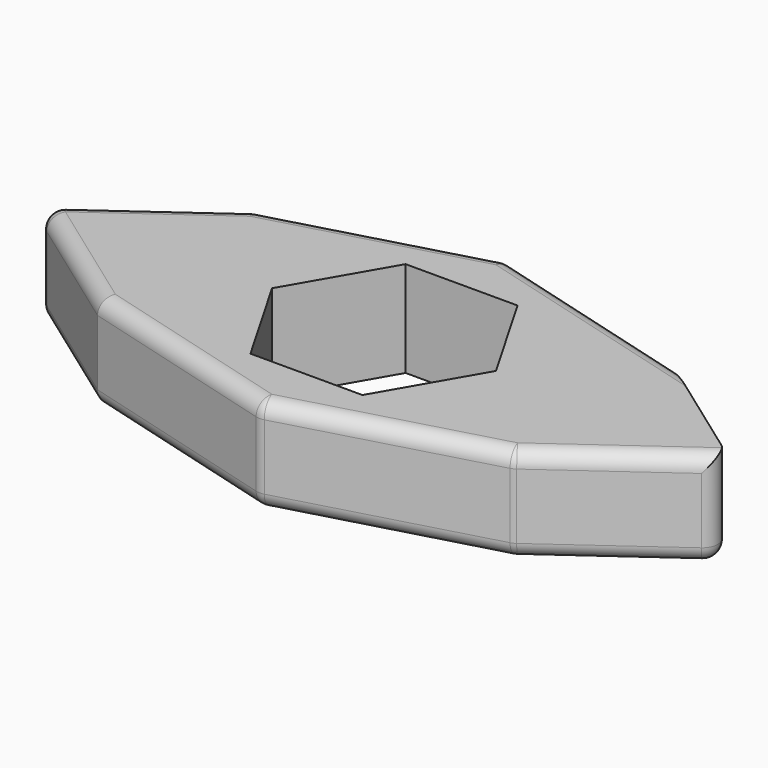
from build123d import *

# Parameters (mm, degrees)
F1_DEPTH = 6.31
F2_R     = 1


with BuildPart() as f1:
    # F0 (on Top) → F1 (new body)
    with BuildSketch(Plane.XY):
        Polygon((13.687501, 6.468751), (0, 10.265626), (-13.687501, 6.468751), (-22.6875, 0), (-13.687501, -6.468751), (0, -10.265626), (13.687501, -6.468751), (22.6875, 0), align=None)
        Polygon((-7.372763, 0), (-3.686381, 6.385), (3.686381, 6.385), (7.372763, 0), (3.686381, -6.385), (-3.686381, -6.385), align=None, mode=Mode.SUBTRACT)
    extrude(amount=F1_DEPTH)

    # F2
    f2_edges = [f1.edges().sort_by_distance(p)[0] for p in [
        (-22.6875, 0, 3.155),
        (22.6875, 0, 3.155),
        (13.687501, -6.468751, 3.155),
        (0, -10.265626, 3.155),
        (-18.187501, -3.234375, 0),
        (0, 10.265626, 3.155),
        (13.687501, 6.468751, 3.155),
        (-13.687501, 6.468751, 3.155),
        (-6.84375, 8.367188, 0),
        (6.84375, 8.367188, 6.31),
        (6.84375, 8.367188, 0),
        (18.187501, 3.234375, 0),
        (18.187501, -3.234375, 6.31),
        (6.84375, -8.367188, 6.31),
        (-6.84375, -8.367188, 6.31),
        (-18.187501, -3.234375, 6.31),
        (-6.84375, 8.367188, 6.31),
        (-18.187501, 3.234375, 6.31),
        (-18.187501, 3.234375, 0),
        (6.84375, -8.367188, 0),
        (-6.84375, -8.367188, 0),
        (18.187501, -3.234375, 0),
    ]]
    fillet(f2_edges, radius=F2_R)


solid = f1.part
